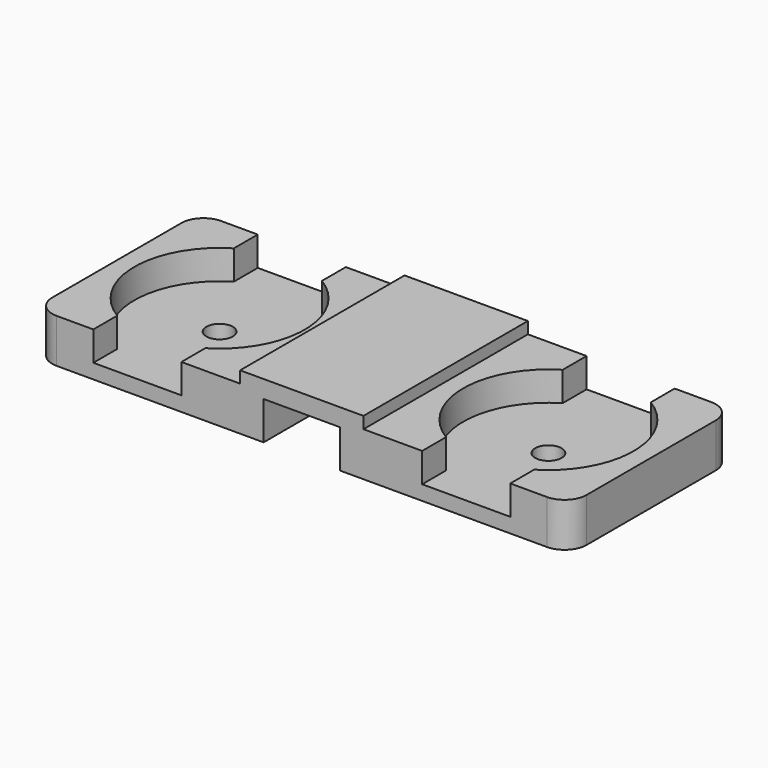
from build123d import *

# Parameters (mm, degrees)
PAD_DEPTH       = 7
SKETCH006_W     = 14
SKETCH006_H     = 14
PAD002_DEPTH    = 3
POCKET004_DEPTH = 2
SKETCH008_R     = 0.9
POCKET005_DEPTH = 1.001
FILLET001_R     = 1.5


with BuildPart() as clamp_unit001:
    # Sketch → Pad (new body, symmetric)
    with BuildSketch(Plane.XZ):
        Polygon((-2.6, 3.8), (4.2, 3.8), (4.2, 0), (2.6, 0), (2.6, 2.6), (-2.6, 2.6), (-2.6, 0), (-4.2, 0), (-4.2, 3.8), align=None)
    extrude(amount=PAD_DEPTH, both=True)


with BuildPart() as obj1:
    # Sketch006 → Pad002 (new body)
    with BuildSketch(Plane.XY):
        Rectangle(SKETCH006_W, SKETCH006_H)
    extrude(amount=PAD002_DEPTH)

    # Sketch007 → Pocket004 (cut)
    with BuildSketch(Plane.XY.offset(3)):
        with BuildLine():
            Line((-3, 7), (-3, 4.963869))
            ThreePointArc((-3, 4.963869), (-5.8, 0), (-3, -4.963869))
            Line((-3, -7), (-3, -4.963869))
            Line((3, -7), (-3, -7))
            Line((3, -4.963869), (3, -7))
            ThreePointArc((3, -4.963869), (5.8, 0), (3, 4.963869))
            Line((3, 7), (3, 4.963869))
            Line((-3, 7), (3, 7))
        make_face()
    extrude(amount=-POCKET004_DEPTH, mode=Mode.SUBTRACT)

    # Sketch008 → Pocket005 (cut, through all)
    with BuildSketch(Plane.XY.offset(1)):
        Circle(SKETCH008_R)
    extrude(amount=-POCKET005_DEPTH, mode=Mode.SUBTRACT)


with BuildPart() as obj1_1:
    # Clone placement: moved
    add(obj1.part.moved(Location((-11.2, 0, 0))))


with BuildPart() as obj2:
    # Clone004 base: copy of obj1
    add(obj1_1.part)


with BuildPart() as obj2_1:
    # Clone004 placement: moved
    add(obj2.part.moved(Location((22.4, 0, 0))))


with BuildPart() as wire_holder_double:
    # Fusion001 base: copy of obj1
    add(obj1_1.part)

    # Fusion001: union clamp-unit001, obj2
    add(clamp_unit001.part)
    add(obj2_1.part)

    # Fillet001
    fillet001_edges = [wire_holder_double.edges().sort_by_distance(p)[0] for p in [
        (-18.2, 7, 1.5),
        (18.2, 7, 1.5),
        (-18.2, -7, 1.5),
        (18.2, -7, 1.5),
    ]]
    fillet(fillet001_edges, radius=FILLET001_R)


with BuildPart() as wire_holder_double_1:
    # Clone007 placement: moved
    add(wire_holder_double.part.moved(Location((35.472096, 29.030871, 0))))


solid = wire_holder_double_1.part
